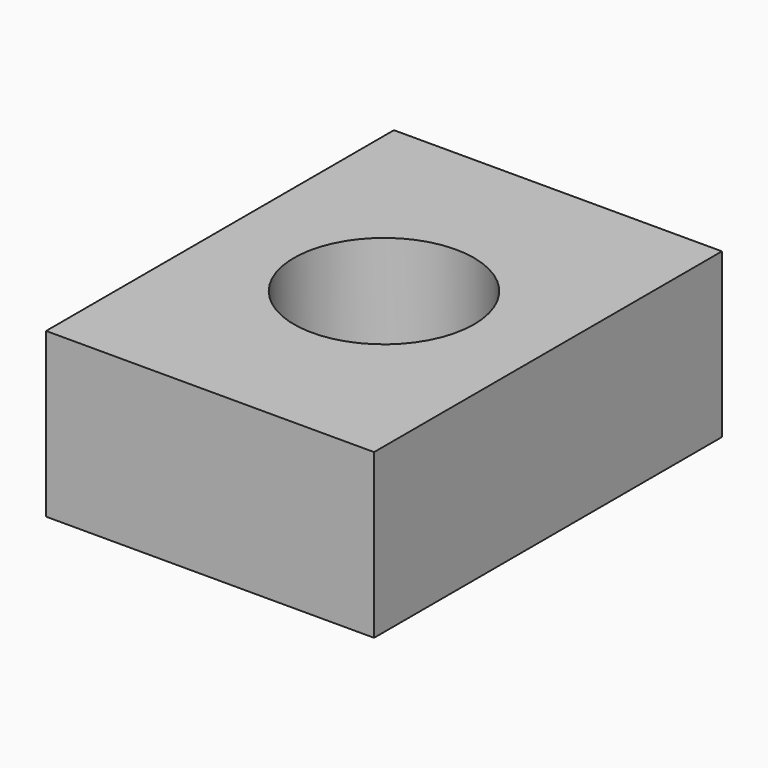
from build123d import *

# Parameters (mm, degrees)
F0_W     = 18.8587028533
F0_H     = 9.4020338729
F1_DEPTH = 12.5
F2_R     = 5.1767234365
F3_DEPTH = 25


with BuildPart() as f1:
    # F0 (on Front) → F1 (new body, symmetric)
    with BuildSketch(Plane.XZ):
        Rectangle(F0_W, F0_H)
    extrude(amount=F1_DEPTH, both=True)

    # F2 (on face) → F3 (cut)
    with BuildSketch(Plane.XY.offset(4.7010169365)):
        Circle(F2_R)
    extrude(amount=-F3_DEPTH, mode=Mode.SUBTRACT)


solid = f1.part
